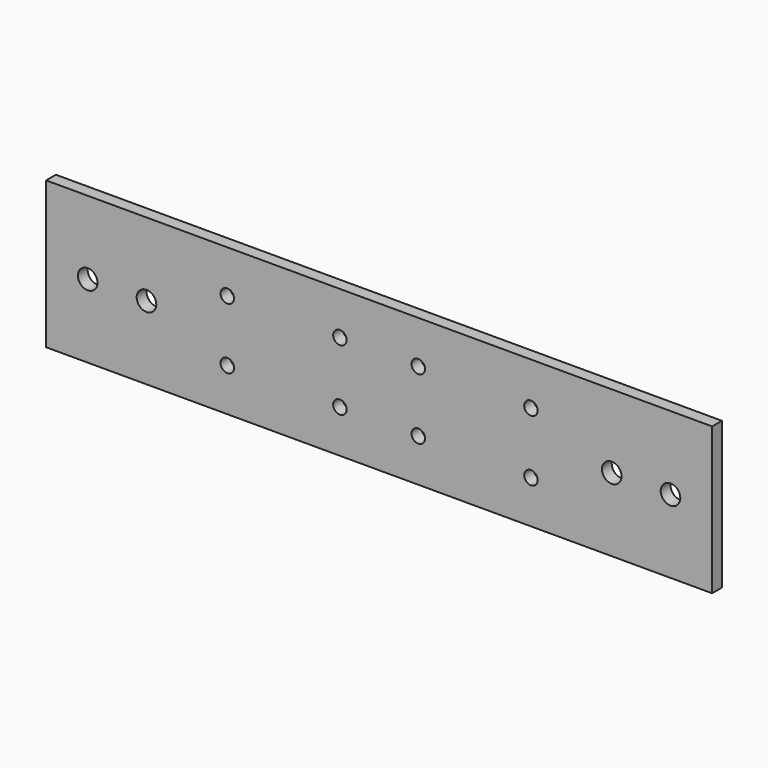
from build123d import *

# Parameters (mm, degrees)
F0_W     = 272
F0_H     = 60
F0_R     = 2.75
F0_R_2   = 4
F1_DEPTH = 5


with BuildPart() as f1:
    # F0 (on Front) → F1 (new body)
    with BuildSketch(Plane.XZ):
        Rectangle(F0_W, F0_H)
        with Locations((-62, -12.5)):
            Circle(F0_R, mode=Mode.SUBTRACT)
        with Locations((-16, -12.5)):
            Circle(F0_R, mode=Mode.SUBTRACT)
        with Locations((16, -12.5)):
            Circle(F0_R, mode=Mode.SUBTRACT)
        with Locations((62, -12.5)):
            Circle(F0_R, mode=Mode.SUBTRACT)
        with Locations((-119, 0)):
            Circle(F0_R_2, mode=Mode.SUBTRACT)
        with Locations((-95, 0)):
            Circle(F0_R_2, mode=Mode.SUBTRACT)
        with Locations((-62, 12.5)):
            Circle(F0_R, mode=Mode.SUBTRACT)
        with Locations((-16, 12.5)):
            Circle(F0_R, mode=Mode.SUBTRACT)
        with Locations((16, 12.5)):
            Circle(F0_R, mode=Mode.SUBTRACT)
        with Locations((62, 12.5)):
            Circle(F0_R, mode=Mode.SUBTRACT)
        with Locations((95, 0)):
            Circle(F0_R_2, mode=Mode.SUBTRACT)
        with Locations((119, 0)):
            Circle(F0_R_2, mode=Mode.SUBTRACT)
    extrude(amount=F1_DEPTH)


solid = f1.part
